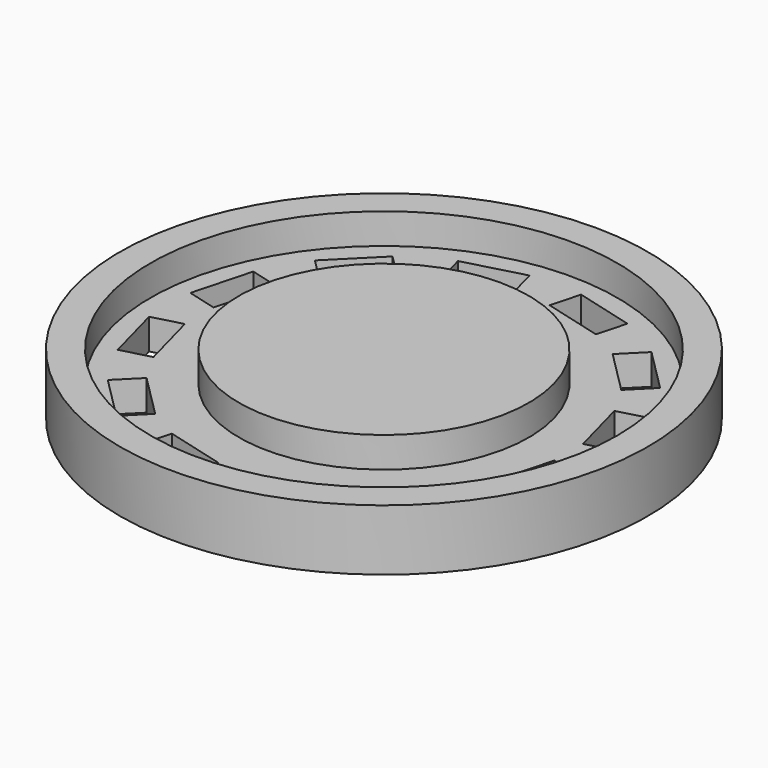
from build123d import *

# Parameters (mm, degrees)
SKETCH004_R        = 8.65
PAD003_DEPTH       = 2
SKETCH005_R        = 7.65
POCKET_DEPTH       = 1
SKETCH006_W        = 1
SKETCH006_H        = 2
POCKET001_DEPTH    = 50.09601
POLARPATTERN_COUNT = 12
SKETCH007_R        = 4.75
PAD004_DEPTH       = 1


with BuildPart() as part:
    # Sketch004 → Pad003 (new body)
    with BuildSketch(Plane(origin=(0, 0, 12.1), x_dir=(0, 1, 0), z_dir=(0, 0, 1))):
        Circle(SKETCH004_R)
    extrude(amount=PAD003_DEPTH)

    # Sketch005 (on Face3 of Pad003) → Pocket (cut)
    with BuildSketch(Plane.XY.offset(14.1)):
        Circle(SKETCH005_R)
    extrude(amount=-POCKET_DEPTH, mode=Mode.SUBTRACT)

    # Sketch006 (on Face5 of Pocket) → Pocket001 (cut, through all)
    with BuildSketch(Plane(origin=(0, 0, 13.1), x_dir=(0.707107, 0.707107, 0), z_dir=(0, 0, 1))):
        with Locations((-6.5, 0)):
            Rectangle(SKETCH006_W, SKETCH006_H)
    pocket001 = extrude(amount=-POCKET001_DEPTH, mode=Mode.SUBTRACT)

    # PolarPattern: Pocket001 ×12 about axis
    polarpattern_axis = Axis((0, 0, 13.1), (0, 0, 1))
    for i in range(1, POLARPATTERN_COUNT):
        add(pocket001.rotate(polarpattern_axis, i * 360 / POLARPATTERN_COUNT), mode=Mode.SUBTRACT)

    # Sketch007 (on Face53 of PolarPattern) → Pad004 (join)
    with BuildSketch(Plane(origin=(0, 0, 13.1), x_dir=(0, 1, 0), z_dir=(0, 0, 1))):
        Circle(SKETCH007_R)
    extrude(amount=PAD004_DEPTH)


solid = part.part
